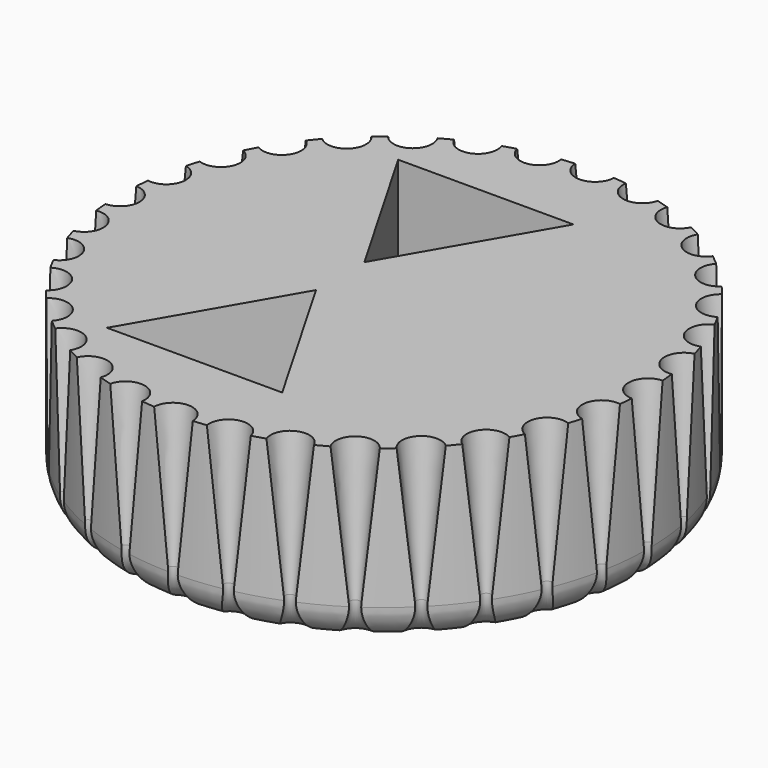
from build123d import *

# Parameters (mm, degrees)
F0_R     = 38.2459625663
F1_DEPTH = 25.4
F2_R     = 2.8030072831
F3_DEPTH = 25.4
F3_TAPER = 6
F4_R     = 5.08
F6_DEPTH = 25.4


with BuildPart() as f1:
    # F0 (on Top) → F1 (new body)
    with BuildSketch(Plane.XY):
        Circle(F0_R)
    extrude(amount=F1_DEPTH)

    # F2 (on face) → F3 (cut)
    with BuildSketch(Plane.XY.offset(25.4)):
        with Locations((0, 38.2459625663)):
            Circle(F2_R)
        with Locations((-7.4614171529, 37.5110771199)):
            Circle(F2_R)
        with Locations((-14.636096229, 35.3346620162)):
            Circle(F2_R)
        with Locations((-21.248318335, 31.8003556671)):
            Circle(F2_R)
        with Locations((-27.0439794836, 27.0439794836)):
            Circle(F2_R)
        with Locations((-31.8003556671, 21.248318335)):
            Circle(F2_R)
        with Locations((-35.3346620162, 14.636096229)):
            Circle(F2_R)
        with Locations((-37.5110771199, 7.4614171529)):
            Circle(F2_R)
        with Locations((-38.2459625663, 0)):
            Circle(F2_R)
        with Locations((-37.5110771199, -7.4614171529)):
            Circle(F2_R)
        with Locations((-35.3346620162, -14.636096229)):
            Circle(F2_R)
        with Locations((-31.8003556671, -21.248318335)):
            Circle(F2_R)
        with Locations((-27.0439794836, -27.0439794836)):
            Circle(F2_R)
        with Locations((-21.248318335, -31.8003556671)):
            Circle(F2_R)
        with Locations((-14.636096229, -35.3346620162)):
            Circle(F2_R)
        with Locations((-7.4614171529, -37.5110771199)):
            Circle(F2_R)
        with Locations((0, -38.2459625663)):
            Circle(F2_R)
        with Locations((7.4614171529, -37.5110771199)):
            Circle(F2_R)
        with Locations((14.636096229, -35.3346620162)):
            Circle(F2_R)
        with Locations((21.248318335, -31.8003556671)):
            Circle(F2_R)
        with Locations((27.0439794836, -27.0439794836)):
            Circle(F2_R)
        with Locations((31.8003556671, -21.248318335)):
            Circle(F2_R)
        with Locations((35.3346620162, -14.636096229)):
            Circle(F2_R)
        with Locations((37.5110771199, -7.4614171529)):
            Circle(F2_R)
        with Locations((38.2459625663, 0)):
            Circle(F2_R)
        with Locations((37.5110771199, 7.4614171529)):
            Circle(F2_R)
        with Locations((35.3346620162, 14.636096229)):
            Circle(F2_R)
        with Locations((31.8003556671, 21.248318335)):
            Circle(F2_R)
        with Locations((27.0439794836, 27.0439794836)):
            Circle(F2_R)
        with Locations((21.248318335, 31.8003556671)):
            Circle(F2_R)
        with Locations((14.636096229, 35.3346620162)):
            Circle(F2_R)
        with Locations((7.4614171529, 37.5110771199)):
            Circle(F2_R)
    extrude(amount=-F3_DEPTH, taper=F3_TAPER, mode=Mode.SUBTRACT)

    # F4
    f4_edges = [f1.edges().sort_by_distance(p)[0] for p in [
        (36.599104, 11.102217, 0),
        (38.112603, 0, 0),
        (38.061798, 3.74876, 0),
        (37.38028, 7.4354, 0),
        (35.211454, 14.585062, 0),
        (33.729928, 18.029022, 0),
        (31.689471, 21.174228, 0),
        (29.564529, 24.262982, 0),
        (26.94968, 26.94968, 0),
        (24.262982, 29.564529, 0),
        (21.174228, 31.689471, 0),
        (18.029022, 33.729928, 0),
        (14.585062, 35.211454, 0),
        (11.102217, 36.599104, 0),
        (7.4354, 37.38028, 0),
        (3.74876, 38.061798, 0),
        (0, 38.112603, 0),
        (-3.74876, 38.061798, 0),
        (-7.4354, 37.38028, 0),
        (-11.102217, 36.599104, 0),
        (-14.585062, 35.211454, 0),
        (-18.029022, 33.729928, 0),
        (-21.174228, 31.689471, 0),
        (-24.262982, 29.564529, 0),
        (-26.94968, 26.94968, 0),
        (-29.564529, 24.262982, 0),
        (-31.689471, 21.174228, 0),
        (-33.729928, 18.029022, 0),
        (-35.211454, 14.585062, 0),
        (-36.599104, 11.102217, 0),
        (-37.38028, 7.4354, 0),
        (-38.061798, 3.74876, 0),
        (-38.112603, 0, 0),
        (-38.061798, -3.74876, 0),
        (-37.38028, -7.4354, 0),
        (-36.599104, -11.102217, 0),
        (-35.211454, -14.585062, 0),
        (-33.729928, -18.029022, 0),
        (-31.689471, -21.174228, 0),
        (-29.564529, -24.262982, 0),
        (-26.94968, -26.94968, 0),
        (-24.262982, -29.564529, 0),
        (-21.174228, -31.689471, 0),
        (-18.029022, -33.729928, 0),
        (-14.585062, -35.211454, 0),
        (-11.102217, -36.599104, 0),
        (-7.4354, -37.38028, 0),
        (-3.74876, -38.061798, 0),
        (0, -38.112603, 0),
        (3.74876, -38.061798, 0),
        (7.4354, -37.38028, 0),
        (11.102217, -36.599104, 0),
        (14.585062, -35.211454, 0),
        (18.029022, -33.729928, 0),
        (21.174228, -31.689471, 0),
        (24.262982, -29.564529, 0),
        (26.94968, -26.94968, 0),
        (29.564529, -24.262982, 0),
        (31.689471, -21.174228, 0),
        (33.729928, -18.029022, 0),
        (35.211454, -14.585062, 0),
        (36.599104, -11.102217, 0),
        (37.38028, -7.4354, 0),
        (38.061798, -3.74876, 0),
    ]]
    fillet(f4_edges, radius=F4_R)

    # F5 (on face) → F6 (cut)
    with BuildSketch(Plane.XY.offset(25.4)):
        Polygon((-6.35, 4.3853031626), (6.35, 26.3823484187), (-19.05, 26.3823484187), align=None)
        Polygon((-6.35, -4.3853031626), (-19.05, -26.3823484187), (6.35, -26.3823484187), align=None)
    extrude(amount=-F6_DEPTH, mode=Mode.SUBTRACT)


solid = f1.part
